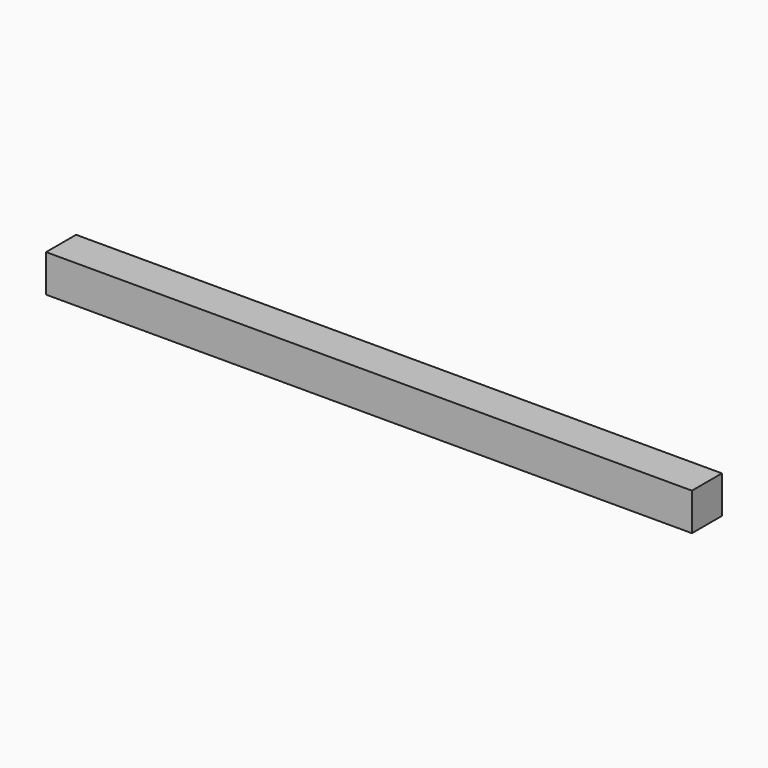
from build123d import *

# Parameters (mm, degrees)
SKETCH_W  = 18
SKETCH_H  = 18
PAD_DEPTH = 310


with BuildPart() as part:
    # Sketch → Pad (new body)
    with BuildSketch(Plane.YZ):
        with Locations((9, 9)):
            Rectangle(SKETCH_W, SKETCH_H)
    extrude(amount=PAD_DEPTH)


solid = part.part
